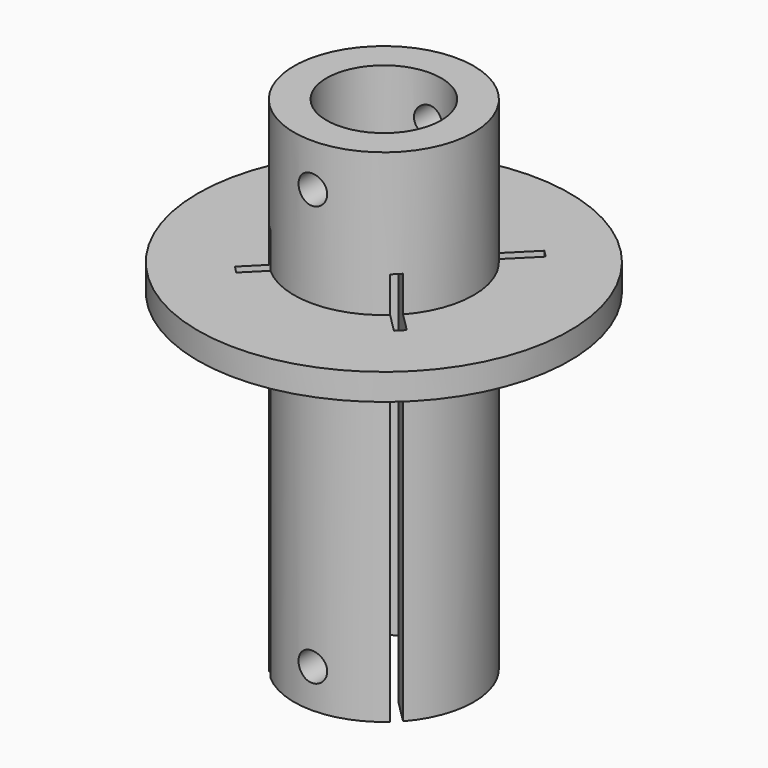
from build123d import *

# Parameters (mm, degrees)
PAD002_DEPTH      = 5
PAD002_DEPTH_BACK = 100
SKETCH002_R       = 2
SKETCH002_R_2     = 2.000137
PAD001_DEPTH      = 17.5
SKETCH_R          = 12.5459
SKETCH_R_2        = 8
PAD_DEPTH         = 20
PAD_DEPTH_BACK    = 50


with BuildPart() as pad002:
    # Sketch003 → Pad002 (new body, two sides)
    with BuildSketch(Plane.XY) as pad002_sk:
        Polygon((1, 0), (13, 12), (12, 13), (0, 1), (-12, 13), (-13, 12), (-1, 0), (-12, -11), (-11, -12), (0, -1), (11, -12), (12, -11), align=None)
    extrude(amount=PAD002_DEPTH)
    extrude(pad002_sk.sketch, amount=-PAD002_DEPTH_BACK)


with BuildPart() as pad001:
    # Sketch002 → Pad001 (new body, symmetric)
    with BuildSketch(Plane.XZ):
        with Locations((0, 14)):
            Circle(SKETCH002_R)
        with Locations((0, -44.638561)):
            Circle(SKETCH002_R_2)
    extrude(amount=PAD001_DEPTH, both=True)


with BuildPart() as revolution:
    # Sketch001 → Revolution (revolve)
    with BuildSketch(Plane.XZ):
        with BuildLine():
            Line((-10, 0), (-25.954499, 0))
            Line((-25.954499, 0), (-25.954499, -3.694792))
            Line((-25.954499, -3.694792), (-15.790939, -3.694792))
            ThreePointArc((-12.482958, -7.002773), (-13.451843, -4.663677), (-15.790939, -3.694792))
            Line((-12.482958, -7.002773), (-12.482958, -17.250204))
            Line((-12.482958, -17.250204), (-10, -17.250204))
            Line((-10, -17.250204), (-10, 0))
        make_face()
    revolve(axis=Axis((0, 0, 0), (0, 0, 1)))


with BuildPart() as cut001:
    # Sketch → Pad (new body, two sides)
    with BuildSketch(Plane.XY) as pad_sk:
        Circle(SKETCH_R)
        Circle(SKETCH_R_2, mode=Mode.SUBTRACT)
    extrude(amount=PAD_DEPTH)
    extrude(pad_sk.sketch, amount=-PAD_DEPTH_BACK)

    # Fusion: union Revolution
    add(revolution.part)

    # Cut: cut Pad001
    add(pad001.part, mode=Mode.SUBTRACT)

    # Cut001: cut Pad002
    add(pad002.part, mode=Mode.SUBTRACT)


solid = cut001.part
